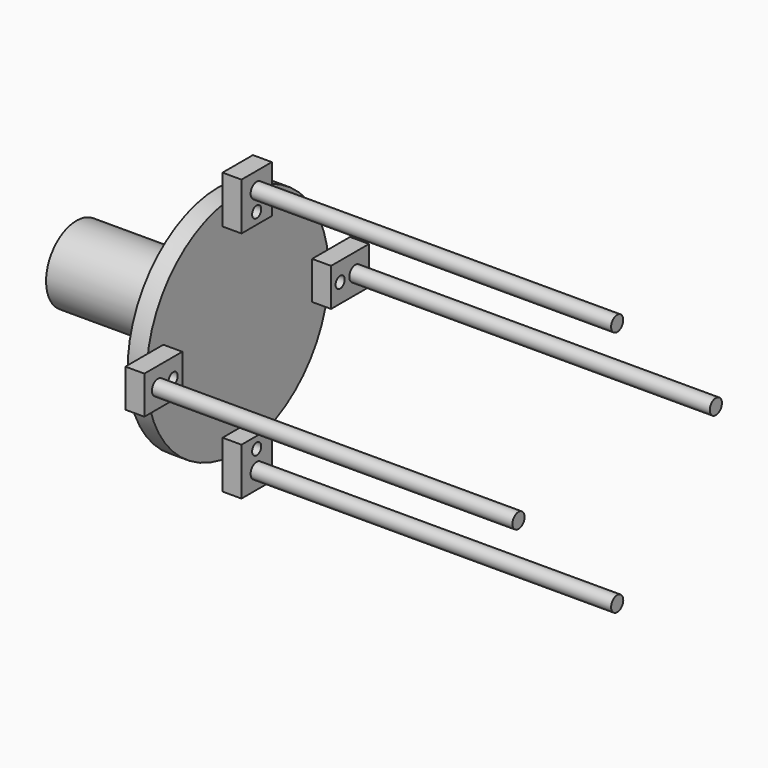
from build123d import *

# Parameters (mm, degrees)
F3_D      = 5
F4_W      = 20
F4_H      = 25
F5_DEPTH  = 10
F7_D      = 6
F9_D      = 6.8
F10_R     = 4
F11_DEPTH = 200
F12_COUNT = 4


with BuildPart() as f1:
    # F0 (on Front) → F1 (revolve)
    with BuildSketch(Plane.XZ):
        Polygon((0, 20), (0, 0), (85, 0), (85, 60), (75, 60), (75, 20), align=None)
    revolve(axis=Axis((42.5, 0, 0), (-1, 0, 0)))

    # F3 (through all)
    with Locations(Plane.YZ.offset(85)):
        with Locations((0, 55), (55, 0), (0, -55), (-55, 0)):
            Hole(F3_D / 2)


with BuildPart() as f5:
    # F4 (on face) → F5 (new body)
    with BuildSketch(Plane.YZ.offset(85)):
        with Locations((0, 61.5)):
            Rectangle(F4_W, F4_H)
    extrude(amount=F5_DEPTH)

    # F7 (through all)
    with Locations(Plane.YZ.offset(95)):
        with Locations((0, 55)):
            Hole(F7_D / 2)

    # F9 (through all)
    with Locations(Plane.YZ.offset(95)):
        with Locations((0, 65)):
            Hole(F9_D / 2)


with BuildPart() as f11:
    # F10 (on face) → F11 (new body)
    with BuildSketch(Plane(origin=(85, 0, 0), x_dir=(0, -1, 0), z_dir=(-1, 0, 0))):
        with Locations((0, 65)):
            Circle(F10_R)
    extrude(amount=-F11_DEPTH)


with BuildPart() as f12_1:
    # F12: instance of F5
    add(f5.part.rotate(Axis((85, 0, 0), (-1, 0, 0)), 1 * 360 / F12_COUNT))


with BuildPart() as f12_2:
    # F12: instance of F5
    add(f5.part.rotate(Axis((85, 0, 0), (-1, 0, 0)), 2 * 360 / F12_COUNT))


with BuildPart() as f12_3:
    # F12: instance of F5
    add(f5.part.rotate(Axis((85, 0, 0), (-1, 0, 0)), 3 * 360 / F12_COUNT))


with BuildPart() as f12_4:
    # F12: instance of F11
    add(f11.part.rotate(Axis((85, 0, 0), (-1, 0, 0)), 1 * 360 / F12_COUNT))


with BuildPart() as f12_5:
    # F12: instance of F11
    add(f11.part.rotate(Axis((85, 0, 0), (-1, 0, 0)), 2 * 360 / F12_COUNT))


with BuildPart() as f12_6:
    # F12: instance of F11
    add(f11.part.rotate(Axis((85, 0, 0), (-1, 0, 0)), 3 * 360 / F12_COUNT))


solid = Compound([f1.part, f5.part, f11.part, f12_1.part, f12_2.part, f12_3.part, f12_4.part, f12_5.part, f12_6.part])
